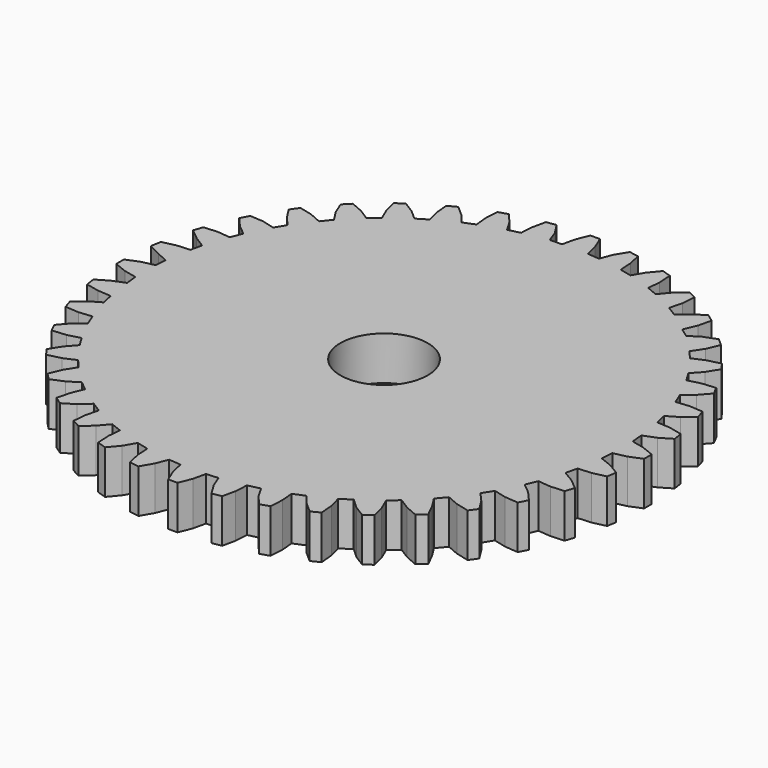
from build123d import *

# Parameters (mm, degrees)
F0_R     = 5.08
F1_DEPTH = 5.08


with BuildPart() as f1:
    # F0 (on Top) → F1 (new body)
    with BuildSketch(Plane.XY):
        Polygon((-20.662819, -18.558831), (-21.493411, -19.858678), (-22.095992, -21.293313), (-21.328483, -22.080082), (-19.842372, -21.462967), (-18.595549, -20.68213), (-17.501252, -21.559794), (-18.063099, -22.903576), (-18.498041, -24.488123), (-17.576907, -25.129085), (-16.24421, -24.311666), (-15.109484, -23.292254), (-13.932519, -24.036305), (-14.300561, -25.508446), (-14.449579, -27.069712), (-13.44708, -27.592489), (-12.263276, -26.528986), (-11.281983, -25.388135), (-9.98265, -25.905184), (-10.12565, -27.403404), (-10.032941, -29.007347), (-8.964394, -29.349384), (-7.937631, -28.12684), (-7.17973, -26.81811), (-5.802693, -27.149849), (-5.711862, -28.659189), (-5.362966, -30.213964), (-4.258954, -30.391459), (-3.449364, -29.007347), (-2.898848, -27.606708), (-1.483893, -27.72323), (-1.16291, -29.190424), (-0.546147, -30.684147), (0.541308, -30.684147), (1.138371, -29.195884), (1.465303, -27.72323), (2.85826, -27.616368), (3.40618, -29.007347), (4.262989, -30.402929), (5.345855, -30.214825), (5.685595, -28.659189), (5.775654, -27.149849), (7.155908, -26.820118), (7.915997, -28.133486), (8.947549, -29.349384), (10.006831, -29.007347), (10.106137, -27.403404), (9.975361, -25.905184), (11.26717, -25.370716), (12.223851, -26.528986), (13.427952, -27.585063), (14.415641, -27.081957), (14.278293, -25.508446), (13.892561, -24.02652), (15.096851, -23.271591), (16.232561, -24.311666), (17.575303, -25.147134), (18.483407, -24.483807), (18.09377, -22.952489), (17.50455, -21.562573), (18.563215, -20.644795), (19.842176, -21.45246), (21.302678, -22.083305), (22.182032, -21.293313), (21.473158, -19.858678), (20.64762, -18.558831), (21.560889, -17.494618), (22.943366, -18.091761), (24.493867, -18.480292), (25.14233, -17.584458), (24.29871, -16.238685), (23.294179, -15.098357), (24.028687, -13.915305), (25.488452, -14.285112), (27.082702, -14.419029), (27.589167, -13.426522), (26.542541, -12.231797), (25.369567, -11.267141), (25.91485, -9.962991), (27.421112, -10.106759), (29.007103, -10.004865), (29.349415, -8.947452), (28.129863, -7.926602), (26.821951, -7.159174), (27.153298, -5.787064), (28.662808, -5.69362), (30.211525, -5.341185), (30.390791, -4.239463), (29.021999, -3.426648), (27.613042, -2.87634), (27.716396, -1.471077), (29.205662, -1.139681), (30.67545, -0.541587), (30.67545, 0.557831), (29.201178, 1.152943), (27.725275, 1.485286), (27.603124, 2.884698), (29.021999, 3.444574), (30.390581, 4.259766), (30.216051, 5.358499), (28.664008, 5.711293), (27.150618, 5.802595), (26.821951, 7.179614), (28.126913, 7.933744), (29.338908, 8.970671), (29.021999, 10.026935), (27.419929, 10.132847), (25.908644, 9.983252), (25.367306, 11.300483), (26.536259, 12.254565), (27.588344, 13.445605), (27.083728, 14.436225), (25.495839, 14.296183), (24.018186, 13.915172), (23.29543, 15.122537), (24.307052, 16.235006), (25.149255, 17.59627), (24.493162, 18.496529), (22.948771, 18.105934), (21.561275, 17.501484), (20.679802, 18.560532), (21.527197, 19.84891), (22.139244, 21.304462), (21.274589, 22.068241), (19.742718, 21.479913), (18.560849, 20.715125), (17.492242, 21.479913), (18.118458, 22.969163), (18.479619, 24.513047), (17.569996, 25.164053), (16.253803, 24.312344), (15.099828, 23.31155), (13.898501, 24.054802), (14.281769, 25.516003), (14.417201, 27.098689), (13.431106, 27.609979), (12.232047, 26.55248), (11.270351, 25.387761), (9.966854, 25.935869), (10.110605, 27.434167), (10.006021, 29.024248), (8.951622, 29.371264), (7.928642, 28.144591), (7.164176, 26.848934), (5.780927, 27.174823), (5.691693, 28.684927), (5.359742, 30.219418), (4.256235, 30.40678), (3.427832, 29.043827), (2.879203, 27.623092), (1.51301, 27.754169), (1.141598, 29.241564), (0.551792, 30.707653), (-0.560413, 30.707653), (-1.165747, 29.232404), (-1.494244, 27.754169), (-2.896672, 27.70363), (-3.392404, 29.066551), (-4.259666, 30.40678), (-5.361385, 30.234623), (-5.706111, 28.686427), (-5.806363, 27.190857), (-7.175663, 26.848934), (-7.930433, 28.13435), (-8.965725, 29.373309), (-10.049219, 29.025044), (-10.13951, 27.451398), (-9.990939, 25.935869), (-11.301538, 25.40435), (-12.248997, 26.55248), (-13.446165, 27.609979), (-14.437826, 27.098689), (-14.292018, 25.516003), (-13.91111, 24.054802), (-15.115054, 23.315802), (-16.246832, 24.315539), (-17.601646, 25.165931), (-18.487192, 24.49958), (-18.105037, 22.969163), (-17.509744, 21.583283), (-18.578831, 20.656108), (-19.849515, 21.479913), (-21.309955, 22.110361), (-22.098084, 21.313015), (-21.499659, 19.84891), (-20.677937, 18.579057), (-21.555581, 17.486141), (-22.966671, 18.111747), (-24.508079, 18.494319), (-25.157437, 17.586998), (-24.3001, 16.262107), (-23.311799, 15.122537), (-24.040395, 13.923795), (-25.523968, 14.318893), (-27.092776, 14.424054), (-27.593406, 13.44869), (-26.557791, 12.254565), (-25.398339, 11.300483), (-25.92522, 9.983252), (-27.429339, 10.127562), (-29.02212, 10.021465), (-29.374401, 8.966674), (-28.142314, 7.952823), (-26.875685, 7.146602), (-27.171303, 5.801658), (-28.676701, 5.716127), (-30.227397, 5.36091), (-30.439454, 4.166822), (-28.950867, 3.402769), (-27.649434, 2.817193), (-27.737808, 1.498818), (-29.216817, 1.160345), (-30.695946, 0.57087), (-30.695946, -0.54721), (-29.216817, -1.13885), (-27.737808, -1.463935), (-27.593406, -2.858388), (-29.02212, -3.427771), (-30.405861, -4.242899), (-30.236989, -5.347519), (-28.686862, -5.683421), (-27.160712, -5.785723), (-26.836566, -7.156952), (-28.142314, -7.926136), (-29.354279, -8.977222), (-29.02212, -10.003523), (-27.429339, -10.110291), (-25.93109, -9.956782), (-25.398339, -11.295121), (-26.557791, -12.222447), (-27.604031, -13.436407), (-27.100449, -14.419463), (-25.51448, -14.279655), (-24.049458, -13.896037), (-23.308631, -15.091998), (-24.313058, -16.232124), (-25.162494, -17.587491), (-24.514346, -18.475364), (-22.960311, -18.090004), (-21.576489, -17.484105), align=None)
        Circle(F0_R, mode=Mode.SUBTRACT)
    extrude(amount=F1_DEPTH)


solid = f1.part
